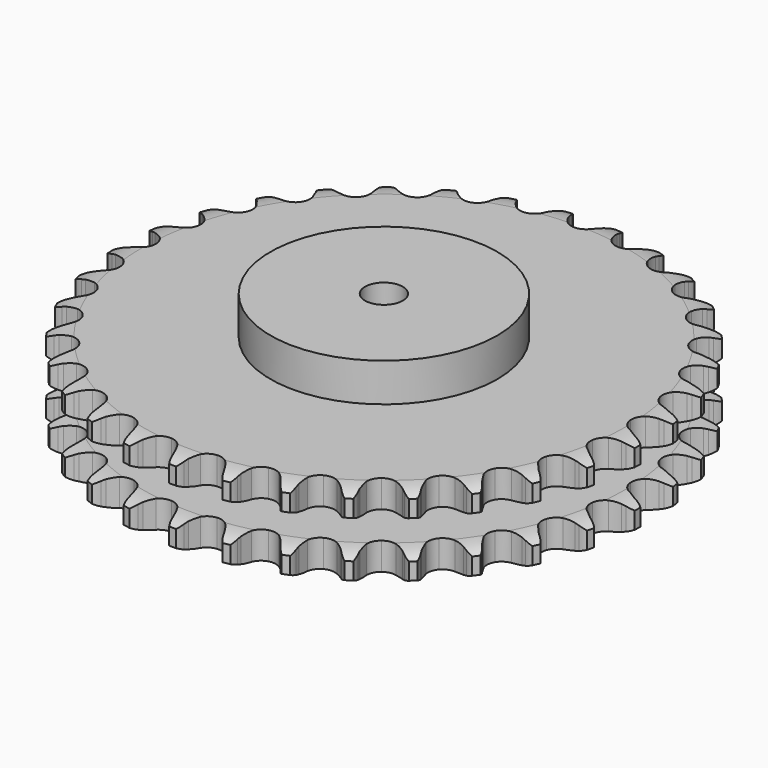
from build123d import *

# Parameters (mm, degrees)
PAD_DEPTH         = 54.6
SKETCH001_R       = 75
PAD001_DEPTH      = 80
SKETCH002_R       = 12.5
POCKET_DEPTH      = 0.001
POCKET_DEPTH_BACK = 80.001


with BuildPart() as part:
    # Sprocket → Pad (new body)
    with BuildSketch(Plane.XY):
        with BuildLine():
            ThreePointArc((-16.864436, 176.612362), (-13.979734, 173.593063), (-12.003774, 169.914306))
            Line((-12.003774, 169.914306), (-11.074432, 167.43067))
            ThreePointArc((-11.074432, 167.43067), (-9.604409, 164.218514), (-7.693782, 161.247248))
            ThreePointArc((-7.693782, 161.247248), (-4.301926, 158.412588), (0, 157.396016))
            ThreePointArc((0, 157.396016), (4.301926, 158.412588), (7.693782, 161.247248))
            ThreePointArc((7.693782, 161.247248), (9.604409, 164.218514), (11.074432, 167.43067))
            Line((11.074432, 167.43067), (12.003774, 169.914306))
            ThreePointArc((12.003774, 169.914306), (13.979734, 173.593063), (16.864436, 176.612362))
            ThreePointArc((16.864436, 176.612362), (19.125601, 173.101693), (20.369643, 169.115463))
            Line((20.369643, 169.115463), (20.81216, 166.50083))
            ThreePointArc((20.81216, 166.50083), (21.647714, 163.068518), (22.961497, 159.789358))
            ThreePointArc((22.961497, 159.789358), (25.755595, 156.364011), (29.787392, 154.551665))
            ThreePointArc((29.787392, 154.551665), (34.203964, 154.735721), (38.070987, 156.877243))
            Line((38.070987, 156.877243), (42.560765, 162.30913))
            ThreePointArc((42.560765, 162.30913), (43.22185, 163.459022), (43.943344, 164.572004))
            ThreePointArc((43.943344, 164.572004), (46.579805, 167.810328), (49.983783, 170.229131))
            ThreePointArc((49.983783, 170.229131), (51.539688, 166.353976), (52.006849, 162.204345))
            Line((52.006849, 162.204345), (51.946546, 159.553216))
            ThreePointArc((51.946546, 159.553216), (52.117431, 156.0248), (52.786888, 152.556264))
            ThreePointArc((52.786888, 152.556264), (54.882241, 148.664031), (58.49819, 146.121414))
            ThreePointArc((58.49819, 146.121414), (62.869781, 145.466302), (67.072208, 146.837285))
            Line((67.072208, 146.837285), (72.508842, 151.321314))
            ThreePointArc((72.508842, 151.321314), (73.375598, 152.325316), (74.294687, 153.281641))
            ThreePointArc((74.294687, 153.281641), (77.496361, 155.962491), (81.296586, 157.693376))
            ThreePointArc((81.296586, 157.693376), (82.090995, 153.593793), (81.764392, 149.430741))
            Line((81.764392, 149.430741), (81.203449, 146.838933))
            ThreePointArc((81.203449, 146.838933), (80.703489, 143.34194), (80.704423, 139.80939))
            ThreePointArc((80.704423, 139.80939), (82.025301, 135.590946), (85.094711, 132.409954))
            ThreePointArc((85.094711, 132.409954), (89.263321, 130.939352), (93.649265, 131.490245))
            Line((93.649265, 131.490245), (99.83626, 134.864353))
            ThreePointArc((99.83626, 134.864353), (100.877361, 135.686176), (101.960827, 136.45128))
            ThreePointArc((101.960827, 136.45128), (105.611996, 138.477763), (109.671118, 139.458171))
            ThreePointArc((109.671118, 139.458171), (109.67532, 135.28233), (108.566756, 131.25632))
            Line((108.566756, 131.25632), (107.525448, 128.817508))
            ThreePointArc((107.525448, 128.817508), (106.372712, 125.478329), (105.70509, 122.009439))
            ThreePointArc((105.70509, 122.009439), (106.203752, 117.617251), (108.615687, 113.912854))
            ThreePointArc((108.615687, 113.912854), (112.430652, 111.679913), (116.841593, 111.390805))
            Line((116.841593, 111.390805), (123.555335, 113.533042))
            ThreePointArc((123.555335, 113.533042), (124.733153, 114.142984), (125.941837, 114.689214))
            ThreePointArc((125.941837, 114.689214), (129.910539, 115.988088), (134.08185, 116.182585))
            ThreePointArc((134.08185, 116.182585), (133.295694, 112.081411), (131.445235, 108.337953))
            Line((131.445235, 108.337953), (129.961197, 106.140283))
            ThreePointArc((129.961197, 106.140283), (128.197349, 103.079604), (126.885299, 99.79975))
            ThreePointArc((126.885299, 99.79975), (126.543723, 95.392562), (128.21101, 91.298647))
            ThreePointArc((128.21101, 91.298647), (131.534446, 88.384071), (135.810962, 87.265411))
            Line((135.810962, 87.265411), (142.808798, 88.098351))
            ThreePointArc((142.808798, 88.098351), (144.080764, 88.474367), (145.37098, 88.781981))
            ThreePointArc((145.37098, 88.781981), (149.513776, 89.306301), (153.646515, 88.707857))
            ThreePointArc((153.646515, 88.707857), (152.098413, 84.829578), (149.572941, 81.503971))
            Line((149.572941, 81.503971), (147.699809, 79.626872))
            ThreePointArc((147.699809, 79.626872), (145.388599, 76.955314), (143.479544, 73.983038))
            ThreePointArc((143.479544, 73.983038), (142.310074, 69.720137), (143.172452, 65.384668))
            ThreePointArc((143.172452, 65.384668), (145.884243, 61.893798), (149.871768, 59.986018))
            Line((149.871768, 59.986018), (156.90078, 59.479556))
            ThreePointArc((156.90078, 59.479556), (158.220921, 59.608056), (159.546037, 59.665936))
            ThreePointArc((159.546037, 59.665936), (163.713196, 59.396751), (167.657995, 58.026996))
            ThreePointArc((167.657995, 58.026996), (165.4039, 54.511783), (162.294691, 51.724223))
            Line((162.294691, 51.724223), (160.100166, 50.235538))
            ThreePointArc((160.100166, 50.235538), (157.325126, 48.049658), (154.888063, 45.492386))
            ThreePointArc((154.888063, 45.492386), (152.932968, 41.527844), (152.959269, 37.107517))
            ThreePointArc((152.959269, 37.107517), (154.961403, 33.166522), (158.515819, 30.538573))
            Line((158.515819, 30.538573), (165.321958, 28.711015))
            ThreePointArc((165.321958, 28.711015), (166.642561, 28.587354), (167.954685, 28.393409))
            ThreePointArc((167.954685, 28.393409), (171.995594, 27.340449), (175.609878, 25.248889))
            ThreePointArc((175.609878, 25.248889), (172.731259, 22.22379), (169.150688, 20.075026))
            Line((169.150688, 20.075026), (166.714085, 19.028561))
            ThreePointArc((166.714085, 19.028561), (163.575514, 17.407362), (160.698525, 15.35752))
            ThreePointArc((160.698525, 15.35752), (158.028466, 11.834628), (157.21774, 7.489204))
            ThreePointArc((157.21774, 7.489204), (158.437854, 3.240521), (161.430695, -0.012614))
            Line((161.430695, -0.012614), (167.767971, -3.095217))
            ThreePointArc((167.767971, -3.095217), (169.041306, -3.466568), (170.293013, -3.90533))
            ThreePointArc((170.293013, -3.90533), (174.061624, -5.704009), (177.214762, -8.44178))
            ThreePointArc((177.214762, -8.44178), (173.81566, -10.867428), (169.893139, -12.299734))
            Line((169.893139, -12.299734), (167.302523, -12.866158))
            ThreePointArc((167.302523, -12.866158), (163.913856, -13.864082), (160.700923, -15.332406))
            ThreePointArc((160.700923, -15.332406), (157.412404, -18.286323), (155.793951, -22.399789))
            ThreePointArc((155.793951, -22.399789), (156.187948, -26.8026), (158.511044, -30.563346))
            Line((158.511044, -30.563346), (164.150411, -34.789579))
            ThreePointArc((164.150411, -34.789579), (165.330457, -35.3952), (166.476508, -36.06292))
            ThreePointArc((166.476508, -36.06292), (169.836613, -38.542309), (172.414643, -41.82734))
            ThreePointArc((172.414643, -41.82734), (168.61791, -43.56587), (164.495208, -44.229949))
            Line((164.495208, -44.229949), (161.844212, -44.295861))
            ThreePointArc((161.844212, -44.295861), (158.327925, -44.634441), (154.895171, -45.468179))
            ThreePointArc((154.895171, -45.468179), (151.107047, -47.746359), (148.739364, -51.479194))
            ThreePointArc((148.739364, -51.479194), (148.293003, -55.877006), (149.862392, -60.009439))
            Line((149.862392, -60.009439), (154.600028, -65.226556))
            ThreePointArc((154.600028, -65.226556), (155.644134, -66.044558), (156.643108, -66.917103))
            ThreePointArc((156.643108, -66.917103), (159.473264, -69.98759), (161.38301, -73.701151))
            ThreePointArc((161.38301, -73.701151), (157.32587, -74.689727), (153.151993, -74.56158))
            Line((153.151993, -74.56158), (150.53643, -74.124595))
            ThreePointArc((150.53643, -74.124595), (147.019609, -73.791595), (143.491104, -73.960614))
            ThreePointArc((143.491104, -73.960614), (139.340288, -75.480717), (136.308948, -78.698008))
            ThreePointArc((136.308948, -78.698008), (135.038362, -82.931871), (135.797322, -87.286634))
            Line((135.797322, -87.286634), (139.461998, -93.306075))
            ThreePointArc((139.461998, -93.306075), (140.332427, -94.306893), (141.148218, -95.352727))
            ThreePointArc((141.148218, -95.352727), (143.346136, -98.903336), (144.518574, -102.911211))
            ThreePointArc((144.518574, -102.911211), (140.347662, -103.114103), (136.273465, -102.19836))
            Line((136.273465, -102.19836), (133.787868, -101.274274))
            ThreePointArc((133.787868, -101.274274), (130.397622, -100.281729), (126.900895, -99.779919))
            ThreePointArc((126.900895, -99.779919), (122.537408, -100.487005), (118.951972, -103.072471))
            ThreePointArc((118.951972, -103.072471), (116.903083, -106.989362), (116.824184, -111.409063))
            Line((116.824184, -111.409063), (119.283447, -118.013269))
            ThreePointArc((119.283447, -118.013269), (119.948741, -119.160731), (120.551864, -120.342055))
            ThreePointArc((120.551864, -120.342055), (122.038105, -124.244459), (122.430861, -128.401791))
            ThreePointArc((122.430861, -128.401791), (118.296925, -127.811667), (114.469659, -126.141425))
            Line((114.469659, -126.141425), (112.203865, -124.763637))
            ThreePointArc((112.203865, -124.763637), (109.062725, -123.14742), (105.724156, -121.992918))
            ThreePointArc((105.724156, -121.992918), (101.305707, -121.861431), (97.295762, -123.721625))
            ThreePointArc((97.295762, -123.721625), (94.542623, -127.179979), (93.628714, -131.504879))
            Line((93.628714, -131.504879), (94.793682, -138.455156))
            ThreePointArc((94.793682, -138.455156), (95.229794, -139.707789), (95.598451, -140.981907))
            ThreePointArc((95.598451, -140.981907), (96.319299, -145.095063), (95.918177, -149.251596))
            ThreePointArc((95.918177, -149.251596), (91.970629, -147.889784), (88.528622, -145.525411))
            Line((88.528622, -145.525411), (86.564522, -143.743716))
            ThreePointArc((86.564522, -143.743716), (83.786017, -141.562242), (80.726272, -139.796775))
            ThreePointArc((80.726272, -139.796775), (76.412553, -138.831467), (72.123029, -139.899158))
            ThreePointArc((72.123029, -139.899158), (68.765145, -142.77398), (67.04926, -146.847765))
            Line((67.04926, -146.847765), (66.877826, -153.892913))
            ThreePointArc((66.877826, -153.892913), (67.068995, -155.205445), (67.189861, -156.526306))
            ThreePointArc((67.189861, -156.526306), (67.119263, -160.701553), (65.93876, -164.70706))
            ThreePointArc((65.93876, -164.70706), (62.320274, -162.622778), (59.387929, -159.649729))
            Line((59.387929, -159.649729), (57.796511, -157.528523))
            ThreePointArc((57.796511, -157.528523), (55.481065, -154.860636), (52.810729, -152.548013))
            ThreePointArc((52.810729, -152.548013), (48.757651, -150.783772), (44.343582, -151.020371))
            ThreePointArc((44.343582, -151.020371), (40.502316, -153.207758), (38.04647, -156.88319))
            Line((38.04647, -156.88319), (36.544831, -163.76858))
            ThreePointArc((36.544831, -163.76858), (36.484147, -165.093571), (36.352855, -166.413437))
            ThreePointArc((36.352855, -166.413437), (35.493361, -170.499871), (33.576145, -174.209581))
            ThreePointArc((33.576145, -174.209581), (30.417502, -171.478162), (28.100802, -168.00389))
            Line((28.100802, -168.00389), (26.939583, -165.619839))
            ThreePointArc((26.939583, -165.619839), (25.170881, -162.561963), (22.986469, -159.785768))
            ThreePointArc((22.986469, -159.785768), (19.34052, -157.286359), (14.961443, -156.683315))
            ThreePointArc((14.961443, -156.683315), (10.775627, -158.104207), (7.668582, -161.248449))
            Line((7.668582, -161.248449), (4.891011, -167.725223))
            ThreePointArc((4.891011, -167.725223), (4.580667, -169.014785), (4.201961, -170.285952))
            ThreePointArc((4.201961, -170.285952), (2.584637, -174.135879), (0, -177.415714))
            ThreePointArc((0, -177.415714), (-2.584637, -174.135879), (-4.201961, -170.285952))
            Line((-4.201961, -170.285952), (-4.891011, -167.725223))
            ThreePointArc((-4.891011, -167.725223), (-6.049043, -164.387877), (-7.668582, -161.248449))
            ThreePointArc((-7.668582, -161.248449), (-10.775627, -158.104207), (-14.961443, -156.683315))
            ThreePointArc((-14.961443, -156.683315), (-19.34052, -157.286359), (-22.986469, -159.785768))
            Line((-22.986469, -159.785768), (-26.939583, -165.619839))
            ThreePointArc((-26.939583, -165.619839), (-27.48837, -166.827365), (-28.100802, -168.00389))
            ThreePointArc((-28.100802, -168.00389), (-30.417502, -171.478162), (-33.576145, -174.209581))
            ThreePointArc((-33.576145, -174.209581), (-35.493361, -170.499871), (-36.352855, -166.413437))
            Line((-36.352855, -166.413437), (-36.544831, -163.76858))
            ThreePointArc((-36.544831, -163.76858), (-37.050339, -160.272385), (-38.04647, -156.88319))
            ThreePointArc((-38.04647, -156.88319), (-40.502316, -153.207758), (-44.343582, -151.020371))
            ThreePointArc((-44.343582, -151.020371), (-48.757651, -150.783772), (-52.810729, -152.548013))
            Line((-52.810729, -152.548013), (-57.796511, -157.528523))
            ThreePointArc((-57.796511, -157.528523), (-58.563906, -158.610369), (-59.387929, -159.649729))
            ThreePointArc((-59.387929, -159.649729), (-62.320274, -162.622778), (-65.93876, -164.70706))
            ThreePointArc((-65.93876, -164.70706), (-67.119263, -160.701553), (-67.189861, -156.526306))
            Line((-67.189861, -156.526306), (-66.877826, -153.892913))
            ThreePointArc((-66.877826, -153.892913), (-66.712539, -150.364231), (-67.04926, -146.847765))
            ThreePointArc((-67.04926, -146.847765), (-68.765145, -142.77398), (-72.123029, -139.899158))
            ThreePointArc((-72.123029, -139.899158), (-76.412553, -138.831467), (-80.726272, -139.796775))
            Line((-80.726272, -139.796775), (-86.564522, -143.743716))
            ThreePointArc((-86.564522, -143.743716), (-87.522789, -144.660781), (-88.528622, -145.525411))
            ThreePointArc((-88.528622, -145.525411), (-91.970629, -147.889784), (-95.918177, -149.251596))
            ThreePointArc((-95.918177, -149.251596), (-96.319299, -145.095063), (-95.598451, -140.981907))
            Line((-95.598451, -140.981907), (-94.793682, -138.455156))
            ThreePointArc((-94.793682, -138.455156), (-93.963575, -135.021523), (-93.628714, -131.504879))
            ThreePointArc((-93.628714, -131.504879), (-94.542623, -127.179979), (-97.295762, -123.721625))
            ThreePointArc((-97.295762, -123.721625), (-101.305707, -121.861431), (-105.724156, -121.992918))
            Line((-105.724156, -121.992918), (-112.203865, -124.763637))
            ThreePointArc((-112.203865, -124.763637), (-113.318371, -125.482775), (-114.469659, -126.141425))
            ThreePointArc((-114.469659, -126.141425), (-118.296925, -127.811667), (-122.430861, -128.401791))
            ThreePointArc((-122.430861, -128.401791), (-122.038105, -124.244459), (-120.551864, -120.342055))
            Line((-120.551864, -120.342055), (-119.283447, -118.013269))
            ThreePointArc((-119.283447, -118.013269), (-117.818522, -114.798784), (-116.824184, -111.409063))
            ThreePointArc((-116.824184, -111.409063), (-116.903083, -106.989362), (-118.951972, -103.072471))
            ThreePointArc((-118.951972, -103.072471), (-122.537408, -100.487005), (-126.900895, -99.779919))
            Line((-126.900895, -99.779919), (-133.787868, -101.274274))
            ThreePointArc((-133.787868, -101.274274), (-135.018332, -101.769495), (-136.273465, -102.19836))
            ThreePointArc((-136.273465, -102.19836), (-140.347662, -103.114103), (-144.518574, -102.911211))
            ThreePointArc((-144.518574, -102.911211), (-143.346136, -98.903336), (-141.148218, -95.352727))
            Line((-141.148218, -95.352727), (-139.461998, -93.306075))
            ThreePointArc((-139.461998, -93.306075), (-137.4152, -90.426919), (-135.797322, -87.286634))
            ThreePointArc((-135.797322, -87.286634), (-135.038362, -82.931871), (-136.308948, -78.698008))
            ThreePointArc((-136.308948, -78.698008), (-139.340288, -75.480717), (-143.491104, -73.960614))
            Line((-143.491104, -73.960614), (-150.53643, -74.124595))
            ThreePointArc((-150.53643, -74.124595), (-151.838378, -74.378001), (-153.151993, -74.56158))
            ThreePointArc((-153.151993, -74.56158), (-157.32587, -74.689727), (-161.38301, -73.701151))
            ThreePointArc((-161.38301, -73.701151), (-159.473264, -69.98759), (-156.643108, -66.917103))
            Line((-156.643108, -66.917103), (-154.600028, -65.226556))
            ThreePointArc((-154.600028, -65.226556), (-152.045336, -62.786789), (-149.862392, -60.009439))
            ThreePointArc((-149.862392, -60.009439), (-148.293003, -55.877006), (-148.739364, -51.479194))
            ThreePointArc((-148.739364, -51.479194), (-151.107047, -47.746359), (-154.895171, -45.468179))
            Line((-154.895171, -45.468179), (-161.844212, -44.295861))
            ThreePointArc((-161.844212, -44.295861), (-163.17059, -44.298291), (-164.495208, -44.229949))
            ThreePointArc((-164.495208, -44.229949), (-168.61791, -43.56587), (-172.414643, -41.82734))
            ThreePointArc((-172.414643, -41.82734), (-169.836613, -38.542309), (-166.476508, -36.06292))
            Line((-166.476508, -36.06292), (-164.150411, -34.789579))
            ThreePointArc((-164.150411, -34.789579), (-161.180156, -32.877381), (-158.511044, -30.563346))
            ThreePointArc((-158.511044, -30.563346), (-156.187948, -26.8026), (-155.793951, -22.399789))
            ThreePointArc((-155.793951, -22.399789), (-157.412404, -18.286323), (-160.700923, -15.332406))
            Line((-160.700923, -15.332406), (-167.302523, -12.866158))
            ThreePointArc((-167.302523, -12.866158), (-168.605392, -12.617526), (-169.893139, -12.299734))
            ThreePointArc((-169.893139, -12.299734), (-173.81566, -10.867428), (-177.214762, -8.44178))
            ThreePointArc((-177.214762, -8.44178), (-174.061624, -5.704009), (-170.293013, -3.90533))
            Line((-170.293013, -3.90533), (-167.767971, -3.095217))
            ThreePointArc((-167.767971, -3.095217), (-164.489506, -1.779699), (-161.430695, -0.012614))
            ThreePointArc((-161.430695, -0.012614), (-158.437854, 3.240521), (-157.21774, 7.489204))
            ThreePointArc((-157.21774, 7.489204), (-158.028466, 11.834628), (-160.698525, 15.35752))
            Line((-160.698525, 15.35752), (-166.714085, 19.028561))
            ThreePointArc((-166.714085, 19.028561), (-167.946355, 19.519269), (-169.150688, 20.075026))
            ThreePointArc((-169.150688, 20.075026), (-172.731259, 22.22379), (-175.609878, 25.248889))
            ThreePointArc((-175.609878, 25.248889), (-171.995594, 27.340449), (-167.954685, 28.393409))
            Line((-167.954685, 28.393409), (-165.321958, 28.711015))
            ThreePointArc((-165.321958, 28.711015), (-161.853777, 29.382306), (-158.515819, 30.538573))
            ThreePointArc((-158.515819, 30.538573), (-154.961403, 33.166522), (-152.959269, 37.107517))
            ThreePointArc((-152.959269, 37.107517), (-152.932968, 41.527844), (-154.888063, 45.492386))
            Line((-154.888063, 45.492386), (-160.100166, 50.235538))
            ThreePointArc((-160.100166, 50.235538), (-161.2173, 50.950587), (-162.294691, 51.724223))
            ThreePointArc((-162.294691, 51.724223), (-165.4039, 54.511783), (-167.657995, 58.026996))
            ThreePointArc((-167.657995, 58.026996), (-163.713196, 59.396751), (-159.546037, 59.665936))
            Line((-159.546037, 59.665936), (-156.90078, 59.479556))
            ThreePointArc((-156.90078, 59.479556), (-153.36823, 59.482359), (-149.871768, 59.986018))
            ThreePointArc((-149.871768, 59.986018), (-145.884243, 61.893798), (-143.172452, 65.384668))
            ThreePointArc((-143.172452, 65.384668), (-142.310074, 69.720137), (-143.479544, 73.983038))
            Line((-143.479544, 73.983038), (-147.699809, 79.626872))
            ThreePointArc((-147.699809, 79.626872), (-148.661431, 80.540418), (-149.572941, 81.503971))
            ThreePointArc((-149.572941, 81.503971), (-152.098413, 84.829578), (-153.646515, 88.707857))
            ThreePointArc((-153.646515, 88.707857), (-149.513776, 89.306301), (-145.37098, 88.781981))
            Line((-145.37098, 88.781981), (-142.808798, 88.098351))
            ThreePointArc((-142.808798, 88.098351), (-139.339556, 87.432563), (-135.810962, 87.265411))
            ThreePointArc((-135.810962, 87.265411), (-131.534446, 88.384071), (-128.21101, 91.298647))
            ThreePointArc((-128.21101, 91.298647), (-126.543723, 95.392562), (-126.885299, 99.79975))
            Line((-126.885299, 99.79975), (-129.961197, 106.140283))
            ThreePointArc((-129.961197, 106.140283), (-130.732551, 107.219309), (-131.445235, 108.337953))
            ThreePointArc((-131.445235, 108.337953), (-133.295694, 112.081411), (-134.08185, 116.182585))
            ThreePointArc((-134.08185, 116.182585), (-129.910539, 115.988088), (-125.941837, 114.689214))
            Line((-125.941837, 114.689214), (-123.555335, 113.533042))
            ThreePointArc((-123.555335, 113.533042), (-120.274787, 112.222727), (-116.841593, 111.390805))
            ThreePointArc((-116.841593, 111.390805), (-112.430652, 111.679913), (-108.615687, 113.912854))
            ThreePointArc((-108.615687, 113.912854), (-106.203752, 117.617251), (-105.70509, 122.009439))
            Line((-105.70509, 122.009439), (-107.525448, 128.817508))
            ThreePointArc((-107.525448, 128.817508), (-108.078656, 130.023014), (-108.566756, 131.25632))
            ThreePointArc((-108.566756, 131.25632), (-109.67532, 135.28233), (-109.671118, 139.458171))
            ThreePointArc((-109.671118, 139.458171), (-105.611996, 138.477763), (-101.960827, 136.45128))
            Line((-101.960827, 136.45128), (-99.83626, 134.864353))
            ThreePointArc((-99.83626, 134.864353), (-96.862974, 132.95687), (-93.649265, 131.490245))
            ThreePointArc((-93.649265, 131.490245), (-89.263321, 130.939352), (-85.094711, 132.409954))
            ThreePointArc((-85.094711, 132.409954), (-82.025301, 135.590946), (-80.704423, 139.80939))
            Line((-80.704423, 139.80939), (-81.203449, 146.838933))
            ThreePointArc((-81.203449, 146.838933), (-81.518516, 148.127349), (-81.764392, 149.430741))
            ThreePointArc((-81.764392, 149.430741), (-82.090995, 153.593793), (-81.296586, 157.693376))
            ThreePointArc((-81.296586, 157.693376), (-77.496361, 155.962491), (-74.294687, 153.281641))
            Line((-74.294687, 153.281641), (-72.508842, 151.321314))
            ThreePointArc((-72.508842, 151.321314), (-69.950281, 148.885604), (-67.072208, 146.837285))
            ThreePointArc((-67.072208, 146.837285), (-62.869781, 145.466302), (-58.49819, 146.121414))
            ThreePointArc((-58.49819, 146.121414), (-54.882241, 148.664031), (-52.786888, 152.556264))
            Line((-52.786888, 152.556264), (-51.946546, 159.553216))
            ThreePointArc((-51.946546, 159.553216), (-52.012086, 160.877976), (-52.006849, 162.204345))
            ThreePointArc((-52.006849, 162.204345), (-51.539688, 166.353976), (-49.983783, 170.229131))
            ThreePointArc((-49.983783, 170.229131), (-46.579805, 167.810328), (-43.943344, 164.572004))
            Line((-43.943344, 164.572004), (-42.560765, 162.30913))
            ThreePointArc((-42.560765, 162.30913), (-40.509403, 159.433225), (-38.070987, 156.877243))
            ThreePointArc((-38.070987, 156.877243), (-34.203964, 154.735721), (-29.787392, 154.551665))
            ThreePointArc((-29.787392, 154.551665), (-25.755595, 156.364011), (-22.961497, 159.789358))
            Line((-22.961497, 159.789358), (-20.81216, 166.50083))
            ThreePointArc((-20.81216, 166.50083), (-20.625802, 167.814053), (-20.369643, 169.115463))
            ThreePointArc((-20.369643, 169.115463), (-19.125601, 173.101693), (-16.864436, 176.612362))
        make_face()
    extrude(amount=PAD_DEPTH)

    # Sketch → Groove (revolve, cut)
    with BuildSketch(Plane.XZ):
        with BuildLine():
            ThreePointArc((160.048368, 0), (167.531683, 0.887302), (174.6, 3.5))
            Line((174.6, 3.5), (174.6, 14.7))
            ThreePointArc((174.6, 14.7), (167.531683, 17.312698), (160.048368, 18.2))
            Line((75, 18.2), (160.048368, 18.2))
            Line((75, 36.4), (75, 18.2))
            Line((160.048368, 36.4), (75, 36.4))
            ThreePointArc((160.048368, 36.4), (167.531683, 37.287302), (174.6, 39.9))
            Line((174.6, 39.9), (174.6, 51.1))
            ThreePointArc((174.6, 51.1), (167.531683, 53.712698), (160.048368, 54.6))
            Line((160.048368, 54.6), (184.6, 54.6))
            Line((184.6, 54.6), (184.6, 0))
            Line((160.048368, 0), (184.6, 0))
        make_face()
    revolve(axis=Axis((0, 0, 0), (0, 0, 1)), mode=Mode.SUBTRACT)

    # Sketch001 → Pad001 (join)
    with BuildSketch(Plane.XY):
        Circle(SKETCH001_R)
    extrude(amount=PAD001_DEPTH)

    # Sketch002 → Pocket (cut, two sides)
    with BuildSketch(Plane.XY) as pocket_sk:
        Circle(SKETCH002_R)
    extrude(amount=-POCKET_DEPTH, mode=Mode.SUBTRACT)
    extrude(pocket_sk.sketch, amount=POCKET_DEPTH_BACK, mode=Mode.SUBTRACT)


solid = part.part
